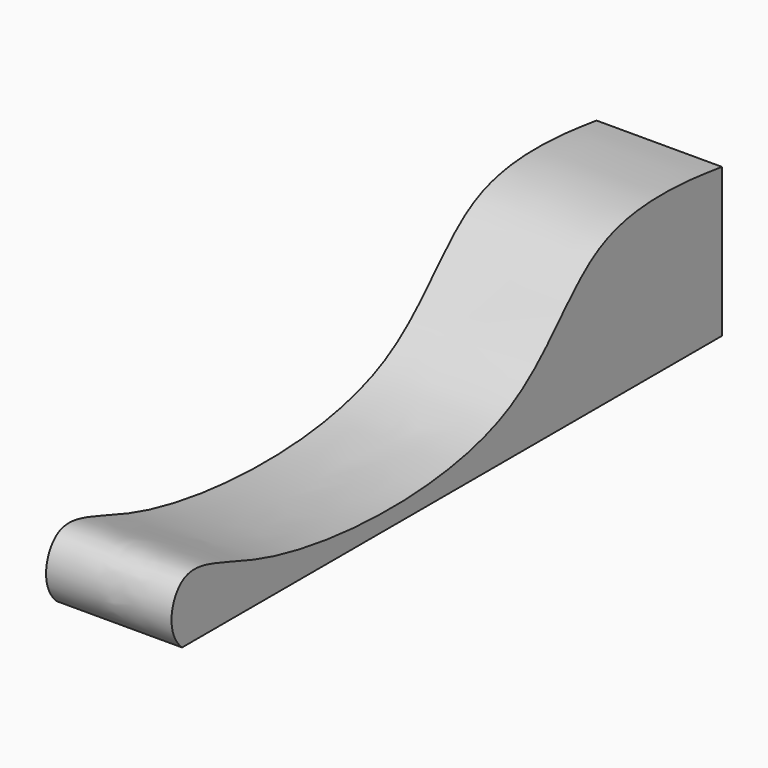
from build123d import *

# Parameters (mm, degrees)
F1_DEPTH = 43


with BuildPart() as f1:
    # F0 (on Right) → F1 (new body)
    with BuildSketch(Plane.YZ):
        with BuildLine():
            Line((92.4520492554, -19.9522830662), (92.4520492554, 31.0649499297))
            add(Edge.make_bspline(
                [(-138.8994455338, -19.9522830662), (-145.9800004959, -13.3857093751), (-140.7561306666, 9.8790907767), (-101.9905381102, -14.2462495254), (8.1276822509, -20.0743616757), (33.9377167577, 38.2281923388), (77.6644785508, 33.034319216), (92.4520492554, 31.0649499297)],
                knots=[0, 0, 0, 0, 0.1272096592, 0.2983214322, 0.5881490824, 0.7964312177, 1, 1, 1, 1], degree=3))
            Line((-138.8994455338, -19.9522830662), (92.4520492554, -19.9522830662))
        make_face()
    extrude(amount=F1_DEPTH)


with BuildPart() as f1_1:
    # F2: moved
    add(f1.part.moved(Location((0, 0, 21))))


with BuildPart() as f3_1:
    # F3: copy of F1
    add(f1_1.part)


solid = f1_1.part
